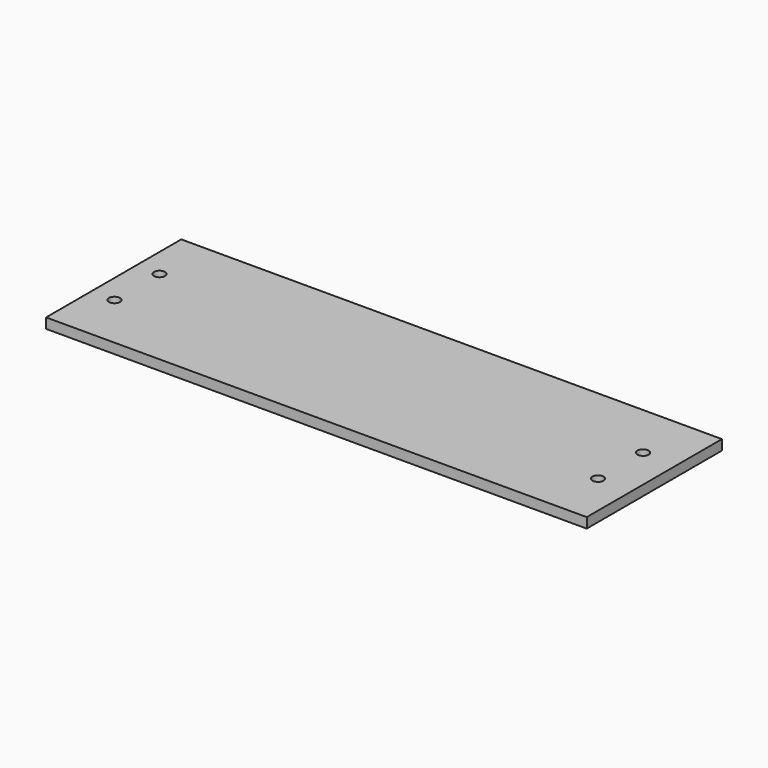
from build123d import *

# Parameters (mm, degrees)
SKETCH001_W              = 50
SKETCH001_H              = 16.9
PAD_DEPTH                = 3
SKETCH002_W              = 50
SKETCH002_H              = 50
PAD001_DEPTH             = 3
SKETCH003_W              = 50
SKETCH003_H              = 20
PAD002_DEPTH             = 3
SKETCH004_W              = 50
SKETCH004_H              = 53.1
PAD003_DEPTH             = 3
SKETCH005_W              = 50
SKETCH005_H              = 20
PAD004_DEPTH             = 3
SKETCH006_R              = 1.65
POCKET_DEPTH             = 3.001
SKETCH_R                 = 1.65
POCKET001_DEPTH          = 0.001
POCKET001_DEPTH_BACK     = 3.001
CLONE001_PLACEMENT_ANGLE = 90


with BuildPart() as part:
    # Sketch001 → Pad (new body)
    with BuildSketch(Plane.XY):
        with Locations((25, 8.45)):
            Rectangle(SKETCH001_W, SKETCH001_H)
    extrude(amount=PAD_DEPTH)

    # Sketch002 → Pad001 (join)
    with BuildSketch(Plane(origin=(0, 16.9, 0), x_dir=(1, 0, 0), z_dir=(0, 0, 1))):
        with Locations((25, 25)):
            Rectangle(SKETCH002_W, SKETCH002_H)
    extrude(amount=PAD001_DEPTH)

    # Sketch003 → Pad002 (join)
    with BuildSketch(Plane(origin=(0, 66.9, 0), x_dir=(1, 0, 0), z_dir=(0, 0, 1))):
        with Locations((25, 10)):
            Rectangle(SKETCH003_W, SKETCH003_H)
    extrude(amount=PAD002_DEPTH)

    # Sketch004 → Pad003 (join)
    with BuildSketch(Plane(origin=(0, 86.9, 0), x_dir=(1, 0, 0), z_dir=(0, 0, 1))):
        with Locations((25, 26.55)):
            Rectangle(SKETCH004_W, SKETCH004_H)
    extrude(amount=PAD003_DEPTH)

    # Sketch005 → Pad004 (join)
    with BuildSketch(Plane(origin=(0, 140, 0), x_dir=(1, 0, 0), z_dir=(0, 0, 1))):
        with Locations((25, 10)):
            Rectangle(SKETCH005_W, SKETCH005_H)
    extrude(amount=PAD004_DEPTH)

    # Sketch006 → Pocket (cut, through all)
    with BuildSketch(Plane.XY):
        with Locations((16.666667, 6.9)):
            Circle(SKETCH006_R)
        with Locations((33.333333, 6.9)):
            Circle(SKETCH006_R)
    extrude(amount=POCKET_DEPTH, mode=Mode.SUBTRACT)

    # Sketch → Pocket001 (cut, two sides)
    with BuildSketch(Plane(origin=(0, 140, 0), x_dir=(1, 0, 0), z_dir=(0, 0, 1))) as pocket001_sk:
        with Locations((16.666667, 10)):
            Circle(SKETCH_R)
        with Locations((33.333333, 10)):
            Circle(SKETCH_R)
    extrude(amount=-POCKET001_DEPTH, mode=Mode.SUBTRACT)
    extrude(pocket001_sk.sketch, amount=POCKET001_DEPTH_BACK, mode=Mode.SUBTRACT)


with BuildPart() as part_1:
    # Clone001 placement: moved
    add(part.part.moved(Location((0, 50, -3))).rotate(Axis((0, 50, -3), (0, 0, -1)), CLONE001_PLACEMENT_ANGLE))


solid = part_1.part
